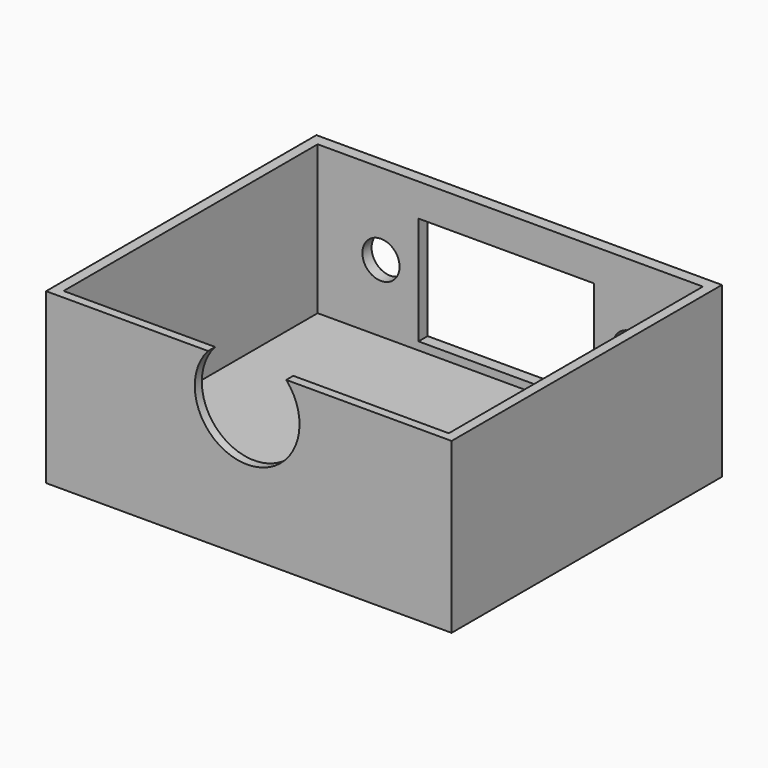
from build123d import *

# Parameters (mm, degrees)
F0_W      = 60
F0_H      = 50
F1_DEPTH  = 25
F2_W      = 57
F2_H      = 47
F3_DEPTH  = 22
F4_W      = 26
F4_H      = 16
F5_DEPTH  = 1.6986841711
F7_D      = 5.5
F7_DEPTH  = 1.6986841711
F8_D      = 5.5
F8_DEPTH  = 1.6986841711
F10_D     = 15.5
F10_DEPTH = 1.3033158289


with BuildPart() as f1:
    # F0 (on Top) → F1 (new body)
    with BuildSketch(Plane.XY):
        with Locations((6.6355607659, 0.0492307718)):
            Rectangle(F0_W, F0_H)
    extrude(amount=F1_DEPTH)

    # F2 (on face) → F3 (cut)
    with BuildSketch(Plane.XY.offset(25)):
        with Locations((6.679061912, -0.1484533993)):
            Rectangle(F2_W, F2_H)
    extrude(amount=-F3_DEPTH, mode=Mode.SUBTRACT)

    # F4 (on face) → F5 (cut, through all)
    with BuildSketch(Plane.XZ.offset(-23.3515466007)):
        with Locations((6.098437123, 12.1760265902)):
            Rectangle(F4_W, F4_H)
    extrude(amount=-F5_DEPTH, mode=Mode.SUBTRACT)

    # F7 (through all, one way)
    with BuildSketch(Plane.XZ.offset(-23.3515466007)):
        with Locations((-12.4521832913, 12.988736853)):
            Circle(F7_D / 2)
    extrude(amount=-F7_DEPTH, mode=Mode.SUBTRACT)

    # F8 (through all, one way)
    with BuildSketch(Plane.XZ.offset(-23.3515466007)):
        with Locations((24.6084798127, 12.988736853)):
            Circle(F8_D / 2)
    extrude(amount=-F8_DEPTH, mode=Mode.SUBTRACT)

    # F10 (through all, one way)
    with BuildSketch(Plane(origin=(0, -23.6484533993, 0), x_dir=(-1, 0, 0), z_dir=(0, 1, 0))):
        with Locations((-6.3858297653, 19.8415778577)):
            Circle(F10_D / 2)
    extrude(amount=-F10_DEPTH, mode=Mode.SUBTRACT)


solid = f1.part
